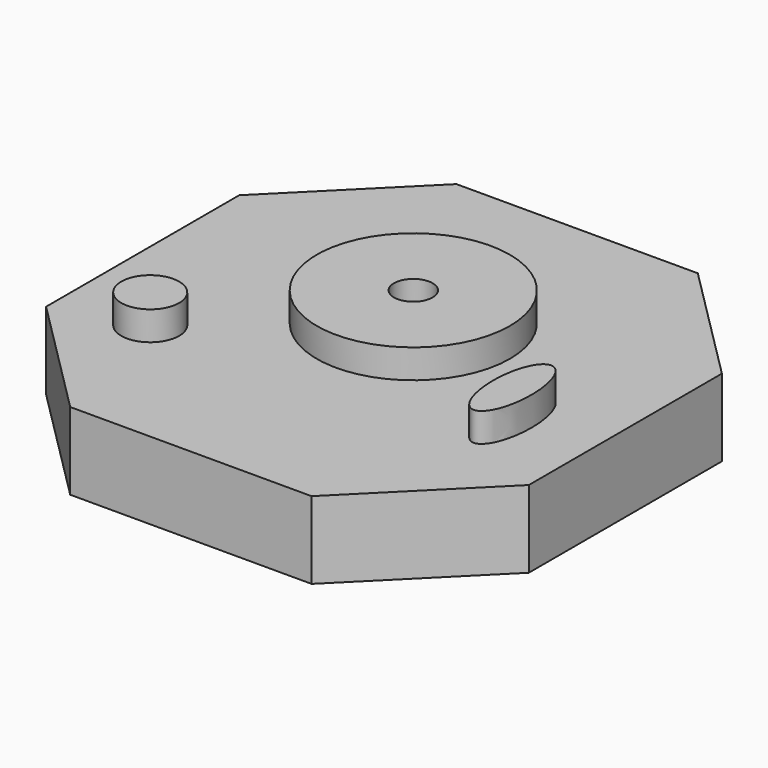
from build123d import *

# Parameters (mm, degrees)
F1_DEPTH = 8
F2_R     = 10
F2_R_2   = 2
F2_R_3   = 3
F3_DEPTH = 3


with BuildPart() as f1:
    # F0 (on Top) → F1 (new body)
    with BuildSketch(Plane.XY):
        Polygon((-12.5, -25), (12.5, -25), (25, -12.5), (25, 12.5), (12.5, 25), (-12.5, 25), (-25, 12.5), (-25, -12.5), align=None)
    extrude(amount=F1_DEPTH)

    # F2 (on face) → F3 (join)
    with BuildSketch(Plane.XY.offset(8)):
        with Locations((0, 3.793914)):
            Circle(F2_R)
        with Locations((0, 3.793914)):
            Circle(F2_R_2, mode=Mode.SUBTRACT)
        with BuildLine():
            add(Edge.make_bspline(
                [(16.901828, 0.492845), (13.437727, 0.492845), (15.169778, -7.007155), (16.901828, -14.507155), (18.633879, -7.007155), (20.36593, 0.492845), (16.901828, 0.492845)],
                knots=[0, 0, 0, 2.094395, 2.094395, 4.18879, 4.18879, 6.283185, 6.283185, 6.283185], degree=2, weights=[1, 0.5, 1, 0.5, 1, 0.5, 1]))
        make_face()
        with Locations((-16.401034, -9.765501)):
            Circle(F2_R_3)
    extrude(amount=F3_DEPTH)


solid = f1.part
